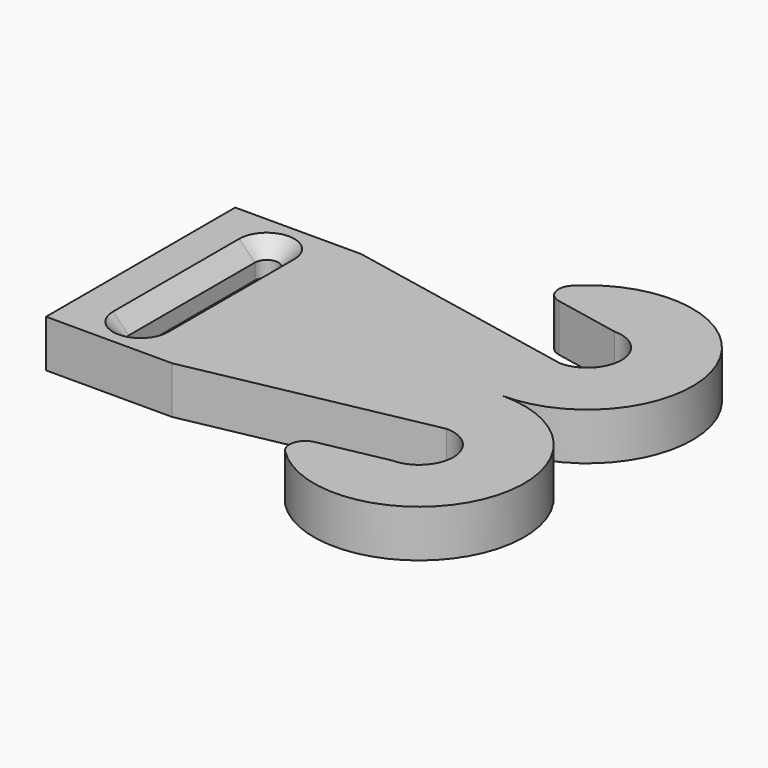
from build123d import *

# Parameters (mm, degrees)
PAD_DEPTH    = 3
POCKET_DEPTH = 5
CHAMFER_SIZE = 1
FILLET_R     = 1


with BuildPart() as part:
    # Sketch → Pad (new body)
    with BuildSketch(Plane.XY):
        with BuildLine():
            Line((0, 15), (0, 0))
            Line((0, 0), (8, 0))
            Line((8, 0), (23, 3))
            ThreePointArc((23, -1.343534), (25.171767, 0.828233), (23, 3))
            Line((23, -1.343534), (17.21767, -2.5))
            ThreePointArc((17.21767, -2.5), (28.775711, -2.511474), (23, 7.5))
            ThreePointArc((23, 7.5), (28.775711, 17.511474), (17.21767, 17.5))
            Line((17.21767, 17.5), (23, 16.343534))
            ThreePointArc((23, 12), (25.171767, 14.171767), (23, 16.343534))
            Line((8, 15), (23, 12))
            Line((0, 15), (8, 15))
        make_face()
    extrude(amount=PAD_DEPTH)

    # Sketch001 (on Face13 of Pad) → Pocket (cut)
    with BuildSketch(Plane.XY.offset(3)):
        with BuildLine():
            ThreePointArc((4.75, 12.5), (4, 13.25), (3.25, 12.5))
            Line((3.25, 12.5), (3.25, 2.5))
            ThreePointArc((3.25, 2.5), (4, 1.75), (4.75, 2.5))
            Line((4.75, 12.5), (4.75, 2.5))
        make_face()
    extrude(amount=-POCKET_DEPTH, mode=Mode.SUBTRACT)

    # Chamfer
    chamfer_edges = [part.edges().sort_by_distance(p)[0] for p in [
        (3.25, 7.5, 0),
        (4.75, 7.5, 3),
    ]]
    chamfer(chamfer_edges, length=CHAMFER_SIZE)

    # Fillet
    fillet_edges = [part.edges().sort_by_distance(p)[0] for p in [
        (17.21767, -2.5, 1.5),
        (17.21767, 17.5, 1.5),
    ]]
    fillet(fillet_edges, radius=FILLET_R)


solid = part.part
